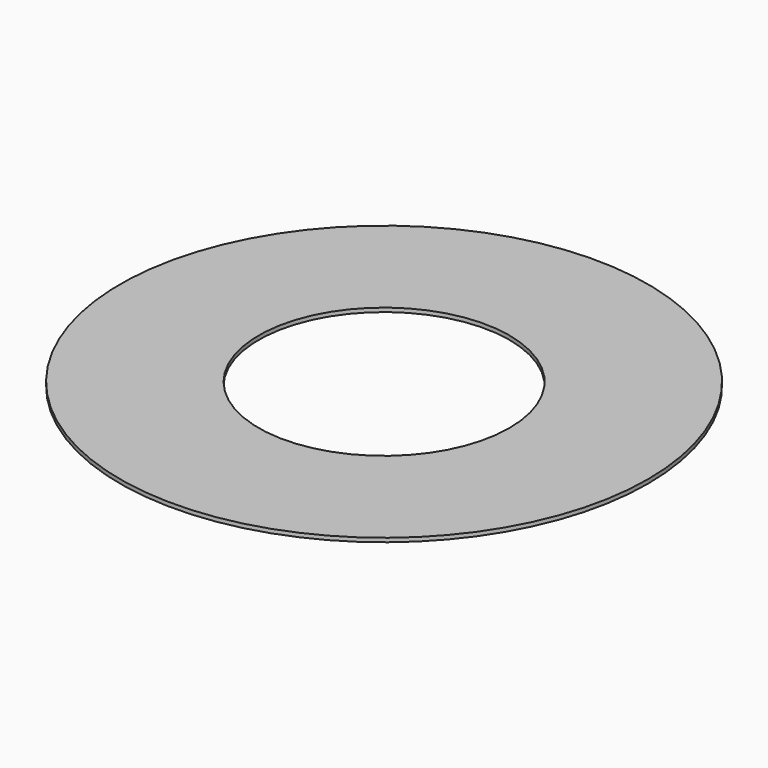
from build123d import *

# Parameters (mm, degrees)
CYLINDER001_R     = 0.95
CYLINDER001_DEPTH = 1
CYLINDER_R        = 2
CYLINDER_DEPTH    = 0.03


with BuildPart() as drill190:
    # Cylinder001 → Cylinder001 (new body)
    with BuildSketch(Plane.XY.offset(-0.5)):
        Circle(CYLINDER001_R)
    extrude(amount=CYLINDER001_DEPTH)


with BuildPart() as obj1:
    # Cylinder → Cylinder (new body)
    with BuildSketch(Plane.XY):
        Circle(CYLINDER_R)
    extrude(amount=CYLINDER_DEPTH)

    # Cut: cut drill190
    add(drill190.part, mode=Mode.SUBTRACT)


solid = obj1.part
